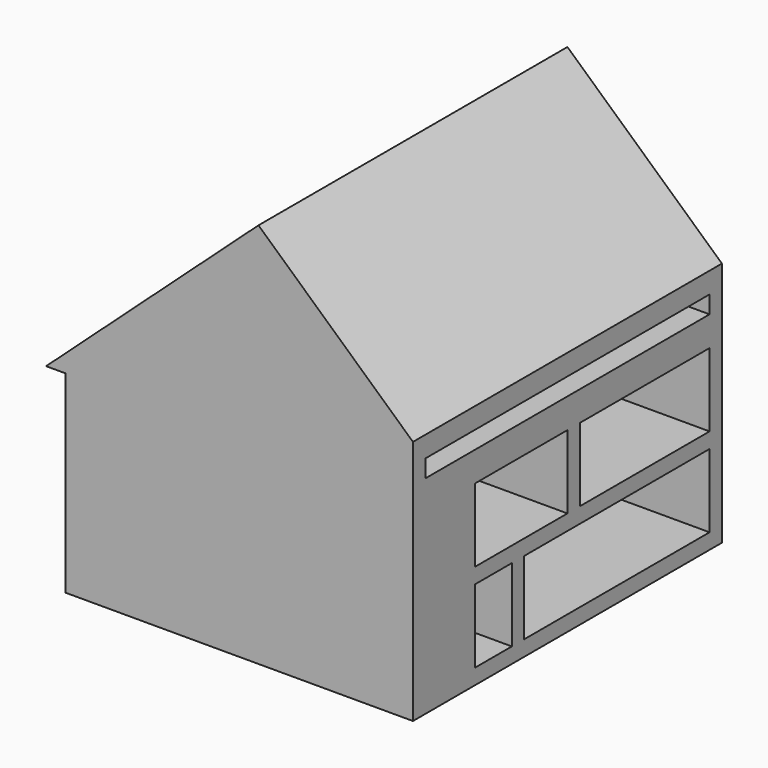
from build123d import *

# Parameters (mm, degrees)
F4_DEPTH = 1270
F6_DEPTH = 1168.4
F1_W     = 1066.8
F1_H     = 482.6
F1_W_2   = 762
F1_W_3   = 304.8
F1_W_4   = 1524
F7_DEPTH = 1168.4
F2_W     = 3160.2668762207
F2_H     = 3479.4540405273
F8_DEPTH = 254


with BuildPart() as f4:
    # F3 (on Front) → F4 (new body, symmetric)
    with BuildSketch(Plane.XZ):
        Polygon((-1270, 0), (-1270, -1270), (1270, -1270), (1270, 0), (1397, 0), (0, 1270), (-1397, 0), align=None)
    extrude(amount=F4_DEPTH, both=True)

    # F5 (on Front) → F6 (cut, symmetric)
    with BuildSketch(Plane.XZ):
        Polygon((0, 1132.6915832066), (-1143, 93.6006741157), (1143, 93.6006741157), align=None)
    extrude(amount=F6_DEPTH, both=True, mode=Mode.SUBTRACT)

    # F1 (on offset) → F7 (cut)
    with BuildSketch(Plane.YZ.offset(1168.4)):
        with Locations((635, -342.9)):
            Rectangle(F1_W, F1_H)
        with Locations((-381, -342.9)):
            Rectangle(F1_W_2, F1_H)
        with Locations((-609.6, -927.1)):
            Rectangle(F1_W_3, F1_H)
        with Locations((406.4, -927.1)):
            Rectangle(F1_W_4, F1_H)
    extrude(amount=-F7_DEPTH, mode=Mode.SUBTRACT)

    # F2 (on face) → F8 (cut, symmetric)
    with BuildSketch(Plane.YZ.offset(1270)):
        with Locations((110.6095314026, 165.9138202667)):
            Rectangle(F2_W, F2_H)
    extrude(amount=F8_DEPTH, both=True, mode=Mode.SUBTRACT)


solid = f4.part
